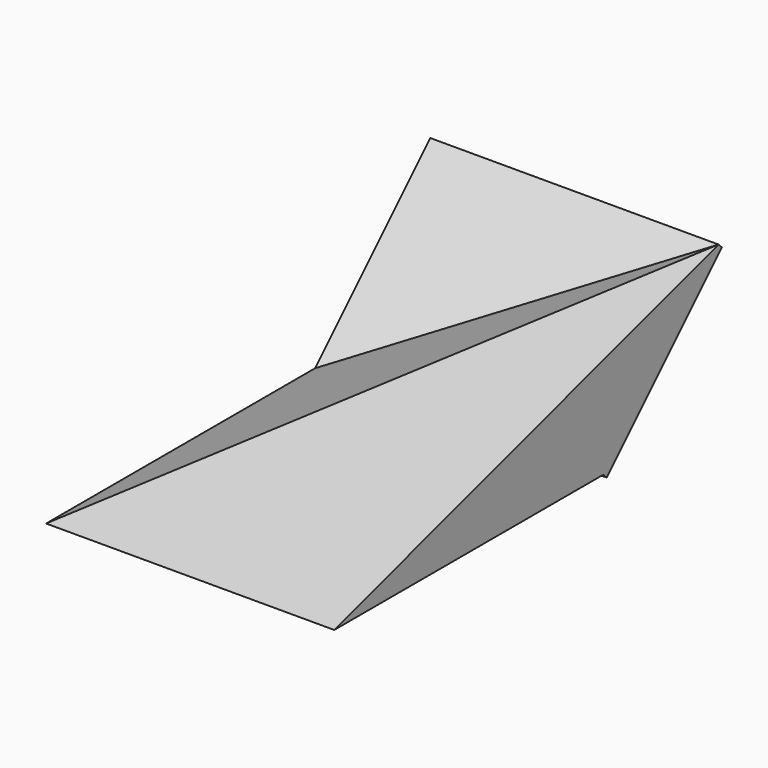
from build123d import *

# Parameters (mm, degrees)
F0_W     = 152.4
F0_H     = 254
F1_DEPTH = 76.2
F3_DEPTH = 152.4
F5_DEPTH = 254.001
F7_DEPTH = 152.401
F9_DEPTH = 3.175


with BuildPart() as f1:
    # F0 (on Top) → F1 (new body)
    with BuildSketch(Plane.XY):
        with Locations((76.2, 127)):
            Rectangle(F0_W, F0_H)
    extrude(amount=F1_DEPTH)

    # F2 (on face) → F3 (cut, through all)
    with BuildSketch(Plane.YZ.offset(152.4)):
        Polygon((0, 76.2), (0, 0), (254, 76.2), align=None)
    extrude(amount=-F3_DEPTH, mode=Mode.SUBTRACT)

    # F4 (on face) → F5 (cut, through all)
    with BuildSketch(Plane(origin=(0, 254, 0), x_dir=(-1, 0, 0), z_dir=(0, 1, 0))):
        Polygon((0, 76.2), (-152.4, 76.2), (0, 0), align=None)
    extrude(amount=-F5_DEPTH, mode=Mode.SUBTRACT)

    # F6 (on face) → F7 (cut, through all)
    with BuildSketch(Plane.YZ.offset(152.4)):
        Polygon((254, 0), (254, 76.2), (177.8, 0), align=None)
    extrude(amount=-F7_DEPTH, mode=Mode.SUBTRACT)

    # F8 (on face) → F9 (join)
    with BuildSketch(Plane(origin=(0, 88.9, -88.9), x_dir=(-1, 0, 0), z_dir=(0, 0.7071067812, -0.7071067812))):
        Polygon((-152.4, 233.4866591478), (0, 125.723585695), (0, 233.4866591478), align=None)
        Polygon((-152.4, 125.7235856949), (0, 125.7235856949), (-152.4, 233.4866591478), align=None)
    extrude(amount=F9_DEPTH)


solid = f1.part
